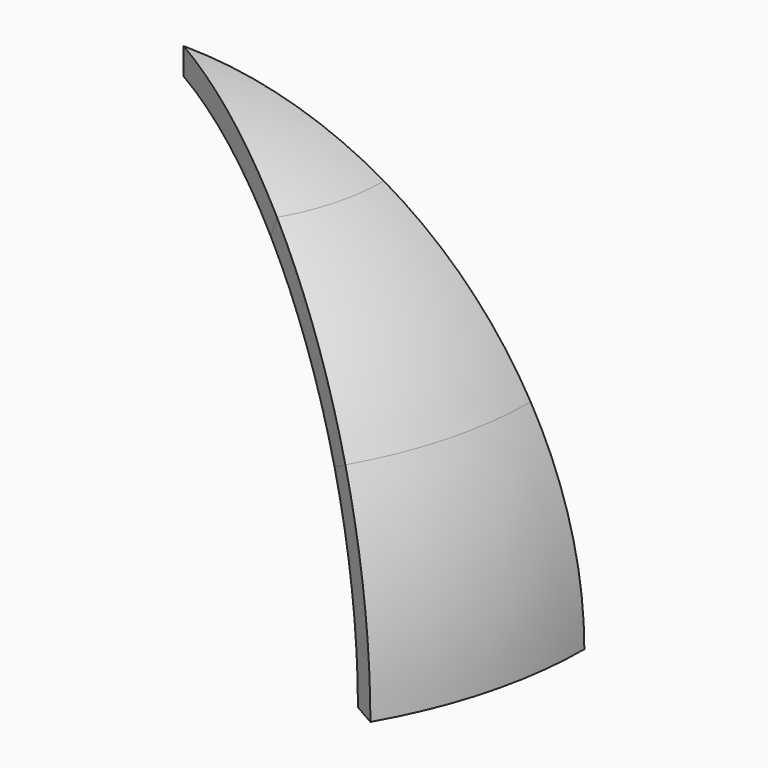
from build123d import *

# Parameters (mm, degrees)
F1_ANGLE = 30
F2_ANGLE = 30
F3_ANGLE = 30


with BuildPart() as f1:
    # F0 (on Front) → F1 (revolve)
    with BuildSketch(Plane.XZ):
        with BuildLine():
            ThreePointArc((65.991136, 38.1), (73.603548, 19.722011), (76.2, 0))
            Line((76.2, 0), (81.649125, 0))
            ThreePointArc((81.649125, 0), (78.866998, 21.132348), (70.710216, 40.824562))
            Line((70.710216, 40.824562), (65.991136, 38.1))
        make_face()
    revolve(axis=Axis((0, 0, 21.780546), (0, 0, -1)), revolution_arc=F1_ANGLE)


with BuildPart() as f2:
    # F0 (on Front) → F2 (revolve)
    with BuildSketch(Plane.XZ):
        with BuildLine():
            ThreePointArc((38.1, 65.991136), (53.881537, 53.881537), (65.991136, 38.1))
            Line((65.991136, 38.1), (70.710216, 40.824562))
            ThreePointArc((70.710216, 40.824562), (57.73465, 57.73465), (40.824562, 70.710216))
            Line((40.824562, 70.710216), (38.1, 65.991136))
        make_face()
    revolve(axis=Axis((0, 0, 21.780546), (0, 0, -1)), revolution_arc=F2_ANGLE)


with BuildPart() as f3:
    # F0 (on Front) → F3 (revolve)
    with BuildSketch(Plane.XZ):
        with BuildLine():
            ThreePointArc((0, 76.2), (19.722011, 73.603548), (38.1, 65.991136))
            Line((38.1, 65.991136), (40.824562, 70.710216))
            ThreePointArc((40.824562, 70.710216), (21.132348, 78.866998), (0, 81.649125))
            Line((0, 81.649125), (0, 76.2))
        make_face()
    revolve(axis=Axis((0, 0, 21.780546), (0, 0, -1)), revolution_arc=F3_ANGLE)


solid = Compound([f1.part, f2.part, f3.part])
